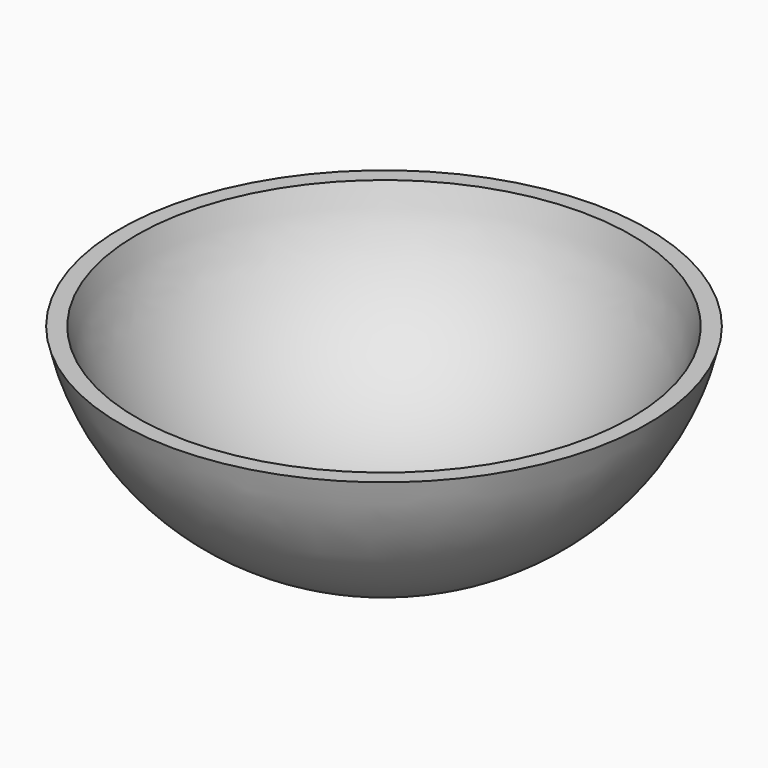
from build123d import *


with BuildPart() as f1:
    # F0 (on Right) → F1 (revolve)
    with BuildSketch(Plane.YZ):
        with BuildLine():
            Line((-30, 24), (-32, 24))
            ThreePointArc((-32, 24), (-24.145166, 9.434035), (-9.90192, 1.008142))
            ThreePointArc((-9.90192, 1.008142), (-6.76495, 1.676355), (-3.575541, 2.015107))
            ThreePointArc((-3.575541, 2.015107), (-20.360679, 8.713142), (-30, 24))
        make_face()
    revolve(axis=Axis((0, 0, 1), (0, 0, 1)))


solid = f1.part
